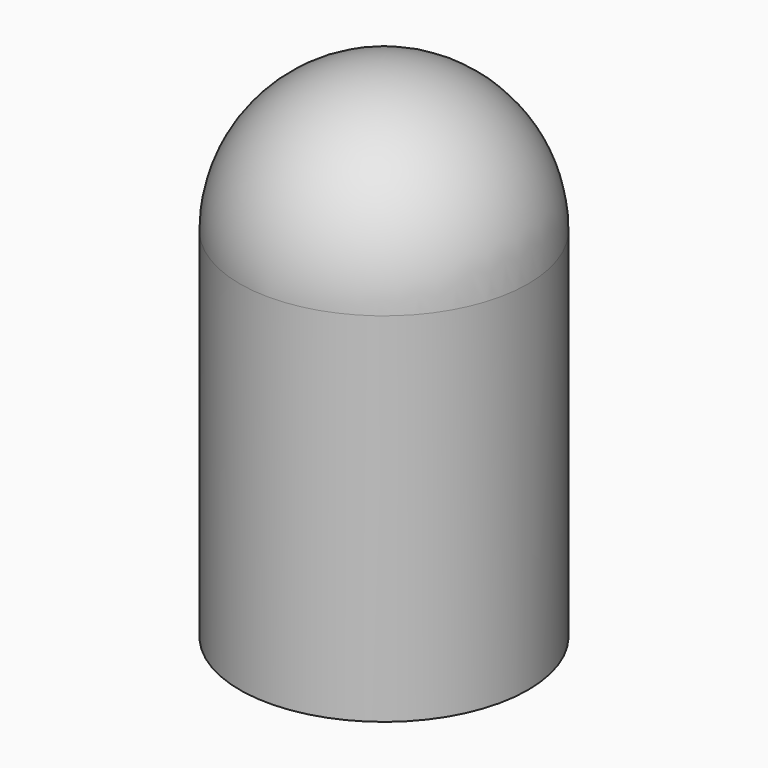
from build123d import *

# Parameters (mm, degrees)
SPHERE_ANGLE      = 180
CYLINDER184_R     = 2.5
CYLINDER184_DEPTH = 6.2


with BuildPart() as obj1_sphere:
    # Sphere → Sphere (revolve)
    with BuildSketch(Plane(origin=(0, 0, 6.2), x_dir=(1, 0, 0), z_dir=(0, 0, -1))):
        with BuildLine():
            ThreePointArc((0, -2.5), (2.5, 0), (0, 2.5))
            Line((0, 2.5), (0, -2.5))
        make_face()
    revolve(axis=Axis((0, 0, 6.2), (0, -1, 0)), revolution_arc=SPHERE_ANGLE)


with BuildPart() as obj1:
    # Cylinder184 → Cylinder184 (new body)
    with BuildSketch(Plane.XY):
        Circle(CYLINDER184_R)
    extrude(amount=CYLINDER184_DEPTH)

    # Fusion005: union obj1_sphere
    add(obj1_sphere.part)


solid = obj1.part
